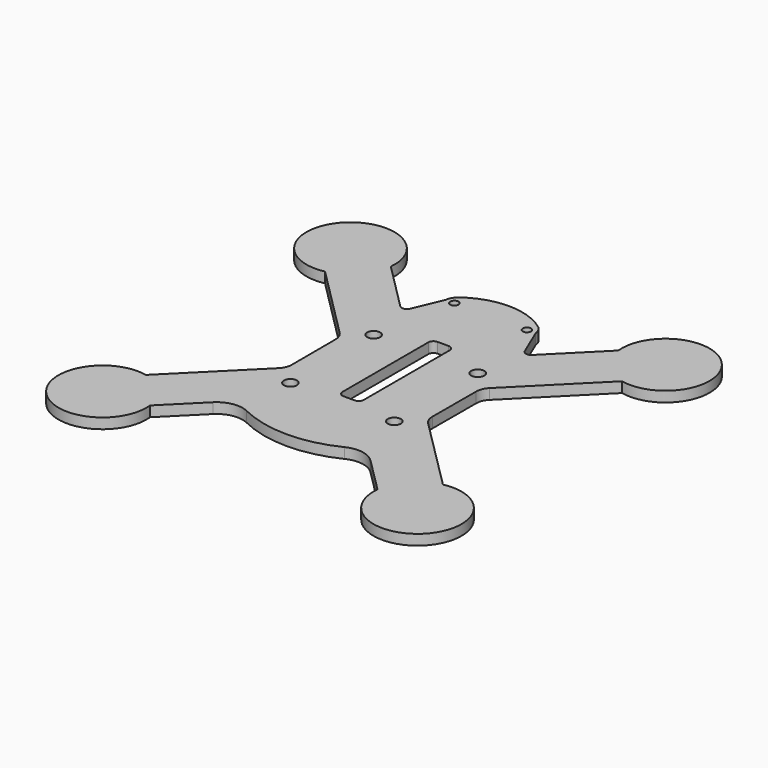
from build123d import *

# Parameters (mm, degrees)
F0_R     = 1.25
F0_R_2   = 0.8
F1_DEPTH = 2


with BuildPart() as f1:
    # F0 (on Top) → F1 (new body)
    with BuildSketch(Plane.XY):
        with BuildLine():
            ThreePointArc((7.780059, 31.994381), (0, 34.626107), (-7.780059, 31.994381))
            ThreePointArc((-7.780059, 31.994381), (-8.38822, 31.173054), (-8.676952, 30.19271))
            Line((-8.676952, 30.19271), (-11.020909, 24.670334))
            ThreePointArc((-11.020909, 24.670334), (-11.750603, 24.079419), (-12.64853, 24.353937))
            Line((-12.64853, 24.353937), (-13.540004, 25.245411))
            Line((-13.540004, 25.245411), (-21.860227, 33.579724))
            Line((-21.860227, 33.579724), (-26.208425, 41.836782))
            ThreePointArc((-26.208425, 41.836782), (-38.659051, 35.66148), (-28.542978, 26.131658))
            Line((-28.542978, 26.131658), (-14.412813, 11.977562))
            ThreePointArc((-14.412813, 11.977562), (-13.765896, 11.009463), (-13.536679, 9.867896))
            Line((-13.536679, 9.867896), (-13.508419, -0.632104))
            ThreePointArc((-13.508419, -0.632104), (-13.735711, -1.785671), (-14.388883, -2.763293))
            Line((-14.388883, -2.763293), (-28.542978, -16.893459))
            ThreePointArc((-28.542978, -16.893459), (-36.56251, -30.858924), (-21.867574, -24.270604))
            Line((-21.867574, -24.270604), (-15.144369, -17.558766))
            ThreePointArc((-15.144369, -17.558766), (-12.430822, -16.164821), (-9.412398, -16.607021))
            ThreePointArc((-9.412398, -16.607021), (0, -18.788404), (9.412398, -16.607021))
            ThreePointArc((9.412398, -16.607021), (12.430822, -16.164821), (15.144369, -17.558766))
            Line((15.144369, -17.558766), (21.867574, -24.270604))
            ThreePointArc((21.867574, -24.270604), (36.56251, -30.858924), (28.542978, -16.893459))
            Line((28.542978, -16.893459), (14.388883, -2.763293))
            ThreePointArc((14.388883, -2.763293), (13.735711, -1.785671), (13.508419, -0.632104))
            Line((13.508419, -0.632104), (13.536676, 9.866851))
            ThreePointArc((13.536676, 9.866851), (13.766087, 11.009384), (14.413551, 11.978301))
            Line((14.413551, 11.978301), (28.542978, 26.131658))
            ThreePointArc((28.542978, 26.131658), (36.586374, 40.070638), (21.860227, 33.579724))
            Line((21.860227, 33.579724), (13.540004, 25.245411))
            Line((13.540004, 25.245411), (12.648765, 24.354172))
            ThreePointArc((12.648765, 24.354172), (11.750636, 24.079592), (11.02078, 24.67064))
            Line((11.02078, 24.67064), (8.676952, 30.19271))
            ThreePointArc((8.676952, 30.19271), (8.38822, 31.173054), (7.780059, 31.994381))
        make_face()
        with Locations((-10, -5.367571)):
            Circle(F0_R, mode=Mode.SUBTRACT)
        with Locations((9.996415, -5.399057)):
            Circle(F0_R, mode=Mode.SUBTRACT)
        with BuildLine():
            ThreePointArc((-2.063184, 17.836217), (-1.770291, 18.543324), (-1.063184, 18.836217))
            Line((-1.063184, 18.836217), (1.063184, 18.836217))
            ThreePointArc((1.063184, 18.836217), (1.770291, 18.543324), (2.063184, 17.836217))
            Line((2.063184, 17.836217), (2.063184, -2.796499))
            ThreePointArc((2.063184, -2.796499), (1.770291, -3.503606), (1.063184, -3.796499))
            Line((1.063184, -3.796499), (-1.063184, -3.796499))
            ThreePointArc((-1.063184, -3.796499), (-1.770291, -3.503606), (-2.063184, -2.796499))
            Line((-2.063184, -2.796499), (-2.063184, 17.836217))
        make_face(mode=Mode.SUBTRACT)
        with Locations((-10.006023, 14.637256)):
            Circle(F0_R, mode=Mode.SUBTRACT)
        with Locations((-6.976652, 30.244759)):
            Circle(F0_R_2, mode=Mode.SUBTRACT)
        with Locations((10.006023, 14.637256)):
            Circle(F0_R, mode=Mode.SUBTRACT)
        with Locations((6.976652, 30.244759)):
            Circle(F0_R_2, mode=Mode.SUBTRACT)
        with BuildLine():
            Line((-26.208425, 41.836782), (-21.860227, 33.579724))
            ThreePointArc((-21.860227, 33.579724), (-22.793945, 38.361442), (-26.208425, 41.836782))
        make_face()
    extrude(amount=F1_DEPTH)


solid = f1.part
